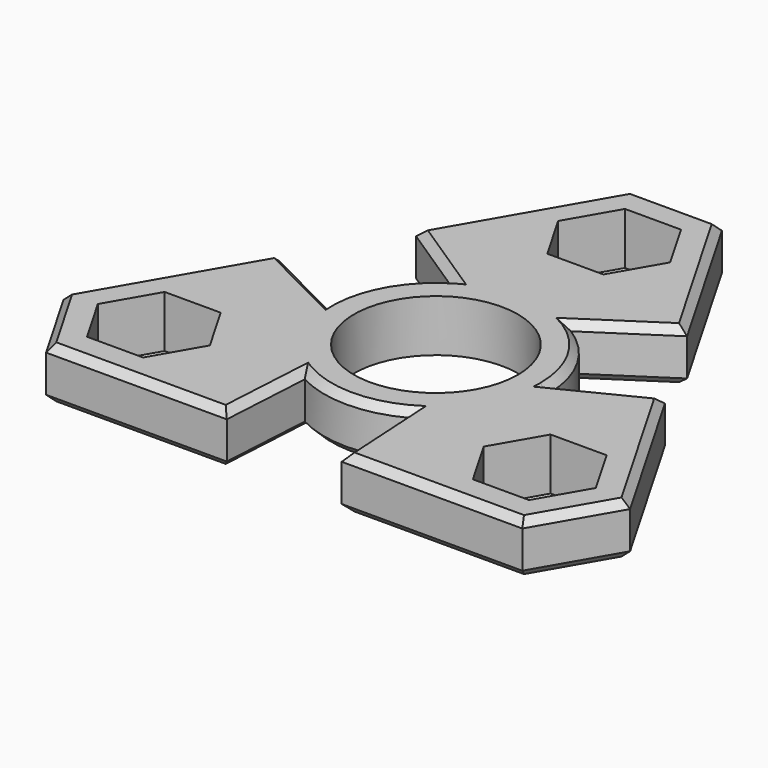
from build123d import *

# Parameters (mm, degrees)
F0_R     = 11.035
F2_DEPTH = 7
F3_SIZE  = 1
F4_COUNT = 3


with BuildPart() as f2:
    # F0 (on Top) → F2 (new body)
    with BuildSketch(Plane.XY):
        with BuildLine():
            ThreePointArc((-8, 12.729934), (-7.272249, -13.159241), (15.035, 0))
            ThreePointArc((15.035, 0), (13.159241, 7.272249), (8, 12.729934))
            ThreePointArc((8, 12.729934), (0, 15.035), (-8, 12.729934))
        make_face()
        Circle(F0_R, mode=Mode.SUBTRACT)
        Polygon((6.082385, 19.465), (12.16477, 30), (6.082385, 40.535), (-6.082385, 40.535), (-12.16477, 30), (-6.082385, 19.465), align=None)
        Polygon((7.545968, 30), (3.772984, 23.465), (-3.772984, 23.465), (-7.545968, 30), (-3.772984, 36.535), (3.772984, 36.535), align=None, mode=Mode.SUBTRACT)
        with BuildLine():
            ThreePointArc((-8, 12.729934), (0, 15.035), (8, 12.729934))
            Line((8, 12.729934), (18.247155, 19.465))
            Line((18.247155, 19.465), (12.16477, 30))
            Line((12.16477, 30), (6.082385, 19.465))
            Line((6.082385, 19.465), (-6.082385, 19.465))
            Line((-6.082385, 19.465), (-12.16477, 30))
            Line((-12.16477, 30), (-18.247155, 19.465))
            Line((-18.247155, 19.465), (-8, 12.729934))
        make_face()
        Polygon((6.082385, 19.465), (12.16477, 30), (6.082385, 40.535), (-6.082385, 40.535), (-12.16477, 30), (-6.082385, 19.465), align=None)
        Polygon((7.545968, 30), (3.772984, 23.465), (-3.772984, 23.465), (-7.545968, 30), (-3.772984, 36.535), (3.772984, 36.535), align=None, mode=Mode.SUBTRACT)
    extrude(amount=F2_DEPTH)

    # F3
    f3_edges = [f2.edges().sort_by_distance(p)[0] for p in [
        (12.16477, 30, 7),
        (0, 40.535, 7),
        (-12.16477, 30, 0),
        (13.123578, 16.097467, 7),
        (-13.123578, 16.097467, 7),
        (13.123578, 16.097467, 0),
        (12.16477, 30, 0),
        (0, 40.535, 0),
        (-12.16477, 30, 7),
        (-7.272249, -13.159241, 0),
        (-7.272249, -13.159241, 7),
        (-13.123578, 16.097467, 0),
    ]]
    chamfer(f3_edges, length=F3_SIZE)

    # F4: F2 ×3 about axis
    f4_axis = Axis((0, 0, 32.696605), (0, 0, 1))


with BuildPart() as f2_1:
    add(f2.part)
    for i in range(1, F4_COUNT):
        add(f2.part.rotate(f4_axis, i * 360 / F4_COUNT))


solid = f2_1.part
